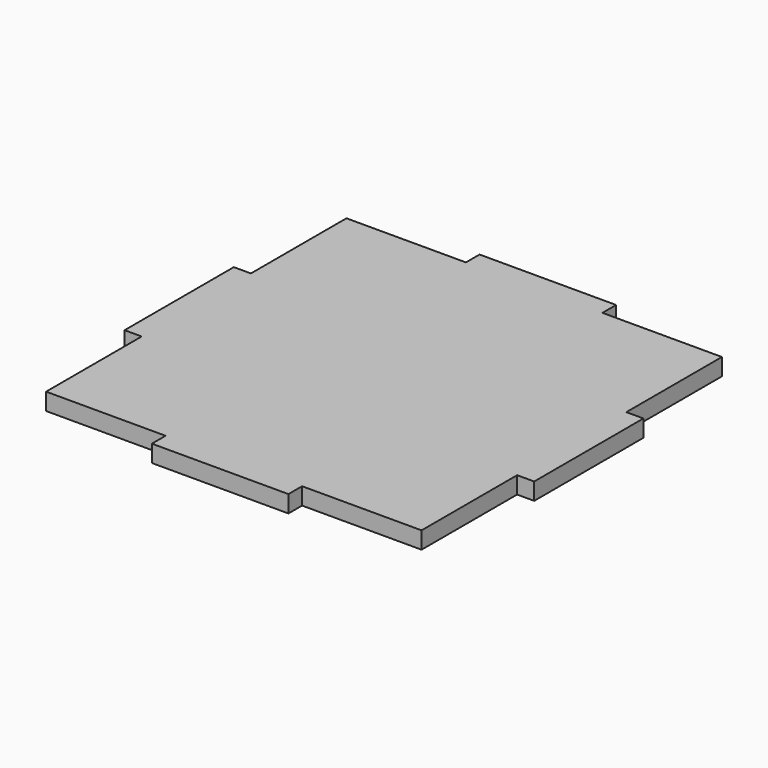
from build123d import *

# Parameters (mm, degrees)
F0_W     = 76.2
F0_H     = 76.2
F1_DEPTH = 3.175
F2_W     = 3.175
F2_H     = 3.175
F2_W_2   = 22.225
F2_H_2   = 22.225
F3_DEPTH = 25.4


with BuildPart() as f1:
    # F0 (on Top) → F1 (new body)
    with BuildSketch(Plane.XY):
        Rectangle(F0_W, F0_H)
    extrude(amount=F1_DEPTH)

    # F2 (on face) → F3 (cut)
    with BuildSketch(Plane.XY.offset(3.175)):
        with Locations((-36.5125, 36.5125)):
            Rectangle(F2_W, F2_H)
        with Locations((-23.8125, 36.5125)):
            Rectangle(F2_W_2, F2_H)
        with Locations((-36.5125, 23.8125)):
            Rectangle(F2_W, F2_H_2)
        with Locations((-36.5125, -23.8125)):
            Rectangle(F2_W, F2_H_2)
        with Locations((-36.5125, -36.5125)):
            Rectangle(F2_W, F2_H)
        with Locations((-23.8125, -36.5125)):
            Rectangle(F2_W_2, F2_H)
        with Locations((23.8125, -36.5125)):
            Rectangle(F2_W_2, F2_H)
        with Locations((36.5125, -23.8125)):
            Rectangle(F2_W, F2_H_2)
        with Locations((36.5125, -36.5125)):
            Rectangle(F2_W, F2_H)
        with Locations((36.5125, 23.8125)):
            Rectangle(F2_W, F2_H_2)
        with Locations((23.8125, 36.5125)):
            Rectangle(F2_W_2, F2_H)
        with Locations((36.5125, 36.5125)):
            Rectangle(F2_W, F2_H)
    extrude(amount=-F3_DEPTH, mode=Mode.SUBTRACT)


solid = f1.part
